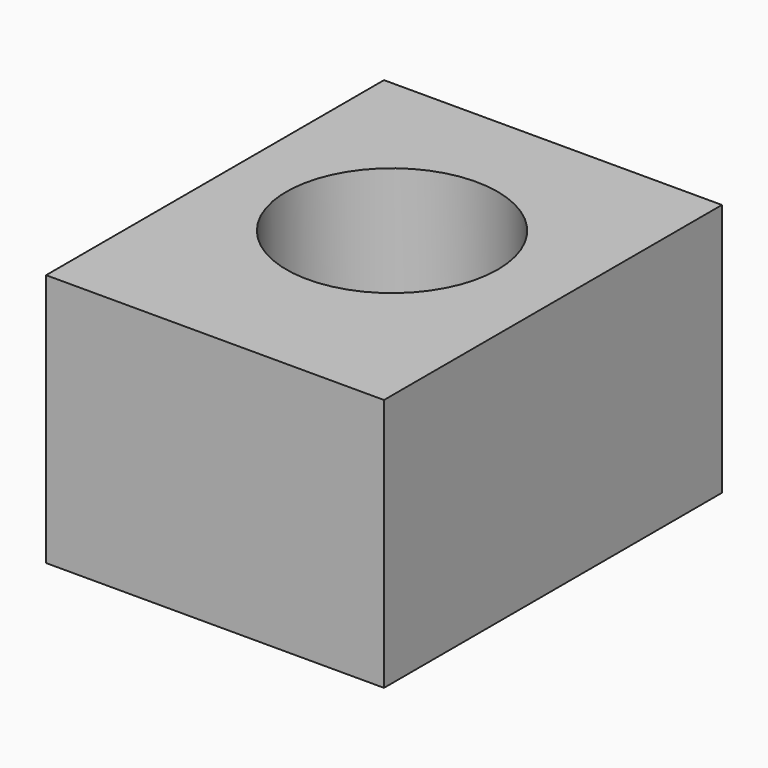
from build123d import *

# Parameters (mm, degrees)
F0_W     = 40
F0_H     = 30
F1_DEPTH = 50
F2_R     = 12.5
F3_DEPTH = 30


with BuildPart() as f1:
    # F0 (on Front) → F1 (new body)
    with BuildSketch(Plane.XZ):
        with Locations((20, 15)):
            Rectangle(F0_W, F0_H)
    extrude(amount=F1_DEPTH)

    # F2 (on face) → F3 (cut)
    with BuildSketch(Plane.XY.offset(30)):
        with Locations((19.405272, -23.067137)):
            Circle(F2_R)
    extrude(amount=-F3_DEPTH, mode=Mode.SUBTRACT)


solid = f1.part
